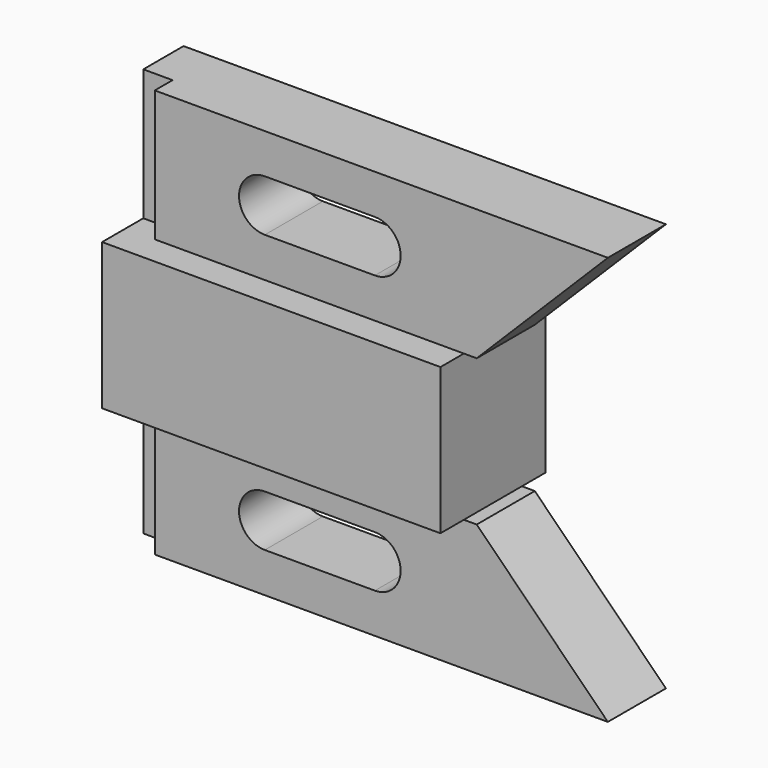
from build123d import *

# Parameters (mm, degrees)
F0_W     = 28.448
F0_H     = 31.75
F1_DEPTH = 73.406
F3_DEPTH = 7.874
F5_W     = 6.35
F5_H     = 28.448
F6_DEPTH = 4.826
F7_W     = 6.35
F7_H     = 28.448
F8_DEPTH = 4.826


with BuildPart() as f1:
    # F0 (on Right) → F1 (new body)
    with BuildSketch(Plane.YZ):
        Rectangle(F0_W, F0_H)
    extrude(amount=F1_DEPTH)

    # F2 (on Front) → F3 (join, symmetric)
    with BuildSketch(Plane.XZ):
        Polygon((0, -44.323), (104.648, -44.323), (76.2, -15.875), (73.406, -15.875), (0, -15.875), align=None)
        with BuildLine():
            ThreePointArc((30.226, -35.687), (24.638, -30.099), (30.226, -24.511))
            Line((30.226, -24.511), (54.102, -24.511))
            ThreePointArc((54.102, -24.511), (58.053313, -26.147687), (59.69, -30.099))
            ThreePointArc((59.69, -30.099), (58.053313, -34.050313), (54.102, -35.687))
            Line((54.102, -35.687), (30.226, -35.687))
        make_face(mode=Mode.SUBTRACT)
        Polygon((0, 15.875), (73.406, 15.875), (76.2, 15.875), (104.648, 44.323), (0, 44.323), align=None)
        with BuildLine():
            ThreePointArc((30.226, 24.511), (24.638, 30.099), (30.226, 35.687))
            Line((30.226, 35.687), (54.102, 35.687))
            ThreePointArc((54.102, 35.687), (58.053313, 34.050313), (59.69, 30.099))
            ThreePointArc((59.69, 30.099), (58.053313, 26.147687), (54.102, 24.511))
            Line((54.102, 24.511), (30.226, 24.511))
        make_face(mode=Mode.SUBTRACT)
    extrude(amount=F3_DEPTH, both=True)

    # F5 (on face) → F6 (cut)
    with BuildSketch(Plane.XZ.offset(7.874)):
        with Locations((3.175, 30.099)):
            Rectangle(F5_W, F5_H)
    extrude(amount=-F6_DEPTH, mode=Mode.SUBTRACT)

    # F7 (on face) → F8 (cut)
    with BuildSketch(Plane.XZ.offset(7.874)):
        with Locations((3.175, -30.099)):
            Rectangle(F7_W, F7_H)
    extrude(amount=-F8_DEPTH, mode=Mode.SUBTRACT)


solid = f1.part
